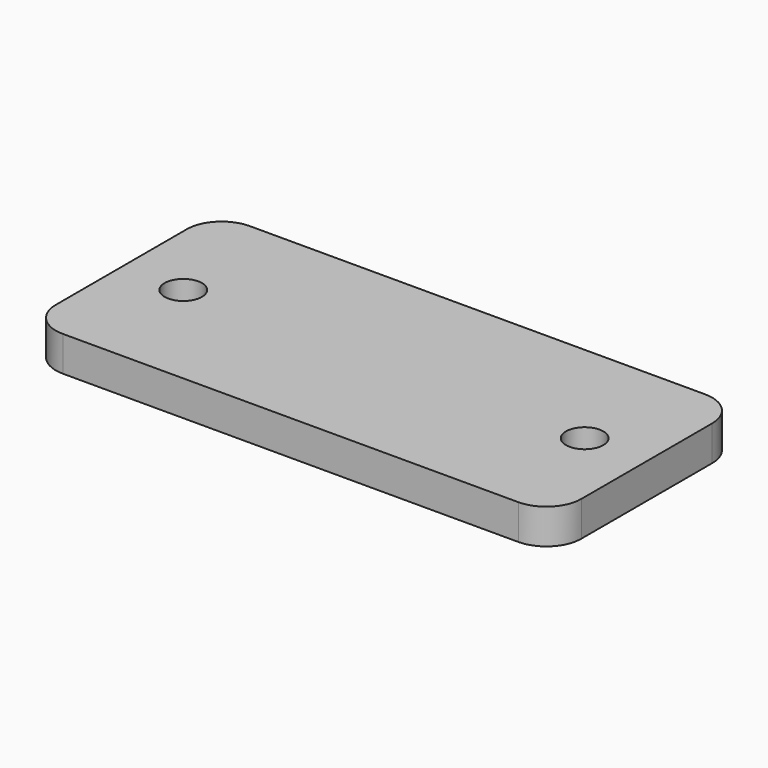
from build123d import *

# Parameters (mm, degrees)
SKETCH_W  = 45
SKETCH_H  = 20
SKETCH_R  = 1.6
PAD_DEPTH = 3
FILLET_R  = 3


with BuildPart() as part:
    # Sketch → Pad (new body)
    with BuildSketch(Plane.XY):
        Rectangle(SKETCH_W, SKETCH_H)
        with Locations((-17.186, 0)):
            Circle(SKETCH_R, mode=Mode.SUBTRACT)
        with Locations((17.186, 0)):
            Circle(SKETCH_R, mode=Mode.SUBTRACT)
    extrude(amount=PAD_DEPTH)

    # Fillet
    fillet_edges = [part.edges().sort_by_distance(p)[0] for p in [
        (22.5, 10, 1.5),
        (22.5, -10, 1.5),
        (-22.5, -10, 1.5),
        (-22.5, 10, 1.5),
    ]]
    fillet(fillet_edges, radius=FILLET_R)


solid = part.part
